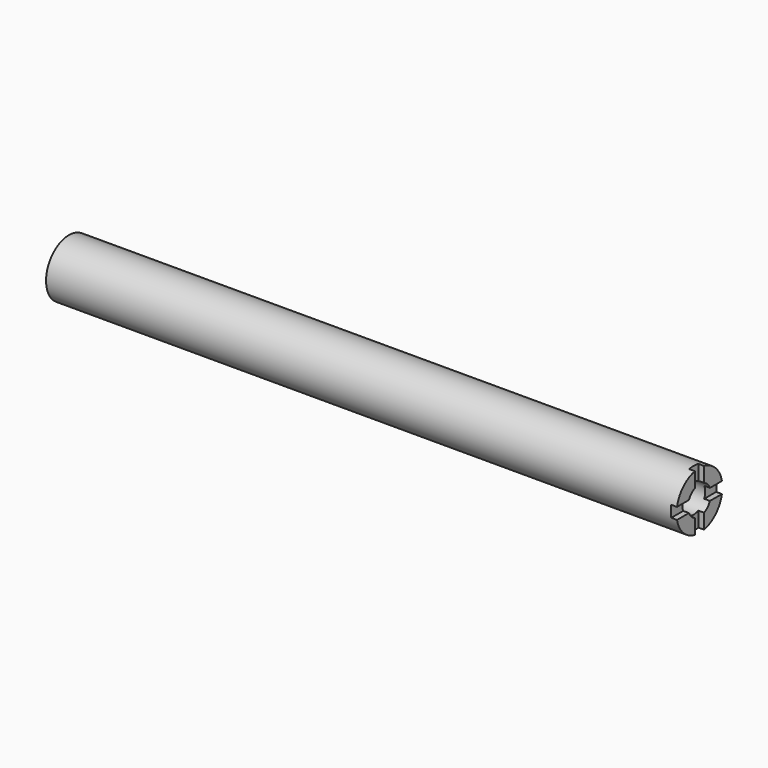
from build123d import *

# Parameters (mm, degrees)
F0_R     = 12.7
F1_DEPTH = 279.4
F2_R     = 6.35
F3_DEPTH = 19.05
F5_DEPTH = 2.54


with BuildPart() as f1:
    # F0 (on Right) → F1 (new body)
    with BuildSketch(Plane.YZ):
        Circle(F0_R)
    extrude(amount=F1_DEPTH)

    # F2 (on face) → F3 (cut)
    with BuildSketch(Plane.YZ.offset(279.4)):
        Circle(F2_R)
    extrude(amount=-F3_DEPTH, mode=Mode.SUBTRACT)

    # F4 (on face) → F5 (cut)
    with BuildSketch(Plane.YZ.offset(279.4)):
        with BuildLine():
            ThreePointArc((2.54, 12.4434078933), (0, 12.7), (-2.54, 12.4434078933))
            Line((-2.54, 12.4434078933), (-2.54, 5.8198711326))
            ThreePointArc((-2.54, 5.8198711326), (0, 6.35), (2.54, 5.8198711326))
            Line((2.54, 5.8198711326), (2.54, 12.4434078933))
        make_face()
        with BuildLine():
            ThreePointArc((-12.4434078933, 2.54), (-12.7, 0), (-12.4434078933, -2.54))
            Line((-12.4434078933, -2.54), (-5.8198711326, -2.54))
            ThreePointArc((-5.8198711326, -2.54), (-6.35, 0), (-5.8198711326, 2.54))
            Line((-5.8198711326, 2.54), (-12.4434078933, 2.54))
        make_face()
        with BuildLine():
            Line((5.8198711326, -2.54), (12.4434078933, -2.54))
            ThreePointArc((12.4434078933, -2.54), (12.6356891432, -1.2764638175), (12.7, 0))
            ThreePointArc((12.7, 0), (12.6356891432, 1.2764638175), (12.4434078933, 2.54))
            Line((12.4434078933, 2.54), (5.8198711326, 2.54))
            ThreePointArc((5.8198711326, 2.54), (6.2160550871, 1.2973662374), (6.35, 0))
            ThreePointArc((6.35, 0), (6.2160550871, -1.2973662374), (5.8198711326, -2.54))
        make_face()
        with BuildLine():
            Line((-2.54, -5.8198711326), (-2.54, -12.4434078933))
            ThreePointArc((-2.54, -12.4434078933), (0, -12.7), (2.54, -12.4434078933))
            Line((2.54, -12.4434078933), (2.54, -5.8198711326))
            ThreePointArc((2.54, -5.8198711326), (0, -6.35), (-2.54, -5.8198711326))
        make_face()
    extrude(amount=-F5_DEPTH, mode=Mode.SUBTRACT)


solid = f1.part
